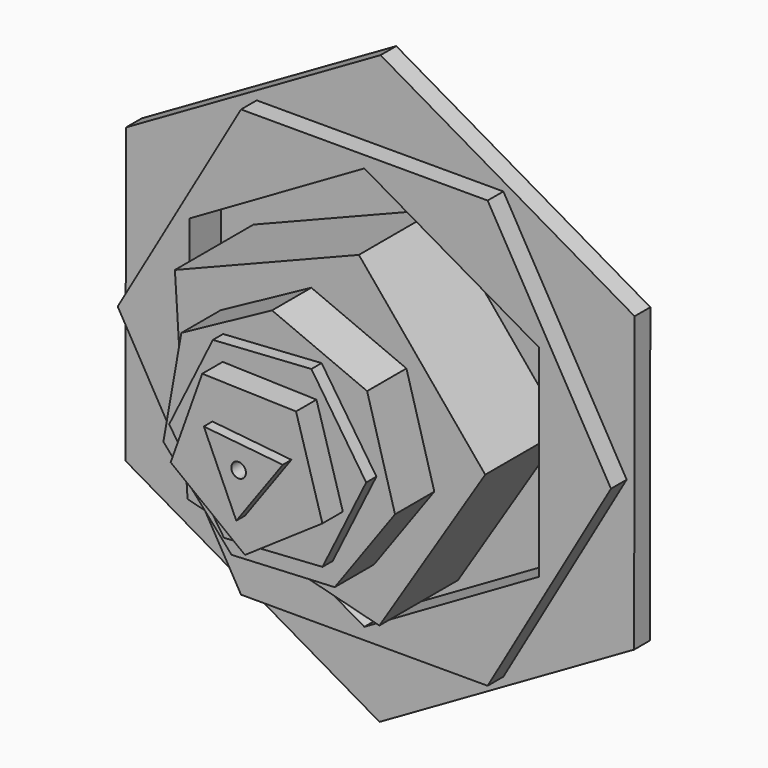
from build123d import *

# Parameters (mm, degrees)
F1_DEPTH = 4
F2_DEPTH = 2
F3_DEPTH = 6
F4_DEPTH = 10
F5_DEPTH = 15
F6_DEPTH = 16.3
F7_DEPTH = 18.9
F0_R     = 0.742587
F8_DEPTH = 20


with BuildPart() as f1:
    # F0 (on Front) → F1 (new body)
    with BuildSketch(Plane.XZ):
        Polygon((-12.555582, -21.746906), (12.555582, -21.746906), (25.111164, 0), (12.555582, 21.746906), (-12.555582, 21.746906), (-25.111164, 0), align=None)
        Polygon((0, 20.545496), (17.792922, 10.272748), (17.792922, -10.272748), (0, -20.545496), (-17.792922, -10.272748), (-17.792922, 10.272748), align=None, mode=Mode.SUBTRACT)
    extrude(amount=F1_DEPTH)

    # F0 (on Front) → F2 (join)
    with BuildSketch(Plane.XZ):
        Polygon((-0.049846, -29.897445), (25.867024, -14.99189), (25.916869, 14.905555), (0.049846, 29.897445), (-25.867024, 14.99189), (-25.916869, -14.905555), align=None)
        Polygon((25.111164, 0), (12.555582, -21.746906), (-12.555582, -21.746906), (-25.111164, 0), (-12.555582, 21.746906), (12.555582, 21.746906), align=None, mode=Mode.SUBTRACT)
    extrude(amount=F2_DEPTH)

    # F0 (on Front) → F3 (join)
    with BuildSketch(Plane.XZ):
        Polygon((17.792922, -10.272748), (17.792922, 10.272748), (0, 20.545496), (-17.792922, 10.272748), (-17.792922, -10.272748), (0, -20.545496), align=None)
        Polygon((4.244969, 16.612462), (17.111157, 1.096328), (6.330308, -15.934894), (-13.198812, -10.944634), (-14.487622, 9.170738), align=None, mode=Mode.SUBTRACT)
    extrude(amount=-F3_DEPTH)


with BuildPart() as f4:
    # F0 (on Front) → F4 (new body)
    with BuildSketch(Plane.XZ):
        Polygon((6.330308, -15.934894), (17.111157, 1.096328), (4.244969, 16.612462), (-14.487622, 9.170738), (-13.198812, -10.944634), align=None)
        Polygon((9.08521, 8.008093), (11.925515, -2.110139), (5.785664, -10.639393), (-4.71091, -11.156968), (-11.660073, -3.273118), (-9.828963, 7.075457), (-0.596443, 12.096068), align=None, mode=Mode.SUBTRACT)
    extrude(amount=F4_DEPTH)

    # F0 (on Front) → F5 (join)
    with BuildSketch(Plane.XZ):
        Polygon((5.785664, -10.639393), (11.925515, -2.110139), (9.08521, 8.008093), (-0.596443, 12.096068), (-9.828963, 7.075457), (-11.660073, -3.273118), (-4.71091, -11.156968), align=None)
        Polygon((4.449288, 9.012364), (10.02958, 0.652985), (5.580292, -8.359378), (-4.449288, -9.012364), (-10.02958, -0.652985), (-5.580292, 8.359378), align=None, mode=Mode.SUBTRACT)
    extrude(amount=F5_DEPTH)

    # F0 (on Front) → F6 (join)
    with BuildSketch(Plane.XZ):
        Polygon((5.580292, -8.359378), (10.02958, 0.652985), (4.449288, 9.012364), (-5.580292, 8.359378), (-10.02958, -0.652985), (-4.449288, -9.012364), align=None)
        Polygon((4.966286, 6.432054), (7.651914, -2.735604), (-0.237143, -8.122751), (-7.798476, -2.284532), (-4.58258, 6.710833), align=None, mode=Mode.SUBTRACT)
    extrude(amount=F6_DEPTH)

    # F0 (on Front) → F7 (join)
    with BuildSketch(Plane.XZ):
        Polygon((-0.237143, -8.122751), (7.651914, -2.735604), (4.966286, 6.432054), (-4.58258, 6.710833), (-7.798476, -2.284532), align=None)
        Polygon((-3.542126, 2.765923), (4.497126, 1.943987), (-0.234318, -4.607241), align=None, mode=Mode.SUBTRACT)
    extrude(amount=F7_DEPTH)

    # F0 (on Front) → F8 (join)
    with BuildSketch(Plane.XZ):
        Polygon((-0.234318, -4.607241), (4.497126, 1.943987), (-3.542126, 2.765923), align=None)
        Circle(F0_R, mode=Mode.SUBTRACT)
    extrude(amount=F8_DEPTH)


solid = Compound([f1.part, f4.part])
